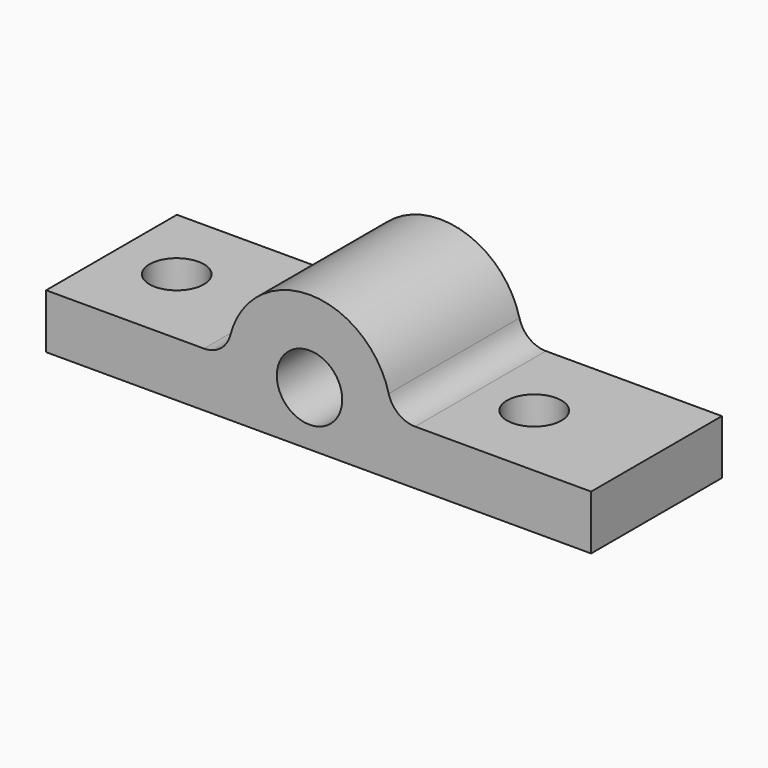
from build123d import *

# Parameters (mm, degrees)
F0_R     = 7.62
F1_DEPTH = 38.1
F2_R     = 6.35
F3_DEPTH = 25.4


with BuildPart() as f1:
    # F0 (on Front) → F1 (new body)
    with BuildSketch(Plane.XZ):
        with BuildLine():
            Line((-64.016195, -28.264835), (62.983805, -28.264835))
            Line((62.983805, -28.264835), (62.983805, -15.564835))
            Line((62.983805, -15.564835), (21.960583, -15.564835))
            ThreePointArc((21.960583, -15.564835), (18.072018, -14.23495), (15.812222, -10.802335))
            ThreePointArc((15.812222, -10.802335), (-2.632861, 3.485165), (-21.077944, -10.802335))
            ThreePointArc((-21.077944, -10.802335), (-23.33774, -14.23495), (-27.226305, -15.564835))
            Line((-27.226305, -15.564835), (-64.016195, -15.564835))
            Line((-64.016195, -15.564835), (-64.016195, -28.264835))
        make_face()
        with Locations((-2.632861, -15.564835)):
            Circle(F0_R, mode=Mode.SUBTRACT)
    extrude(amount=F1_DEPTH)

    # F2 (on face) → F3 (cut)
    with BuildSketch(Plane.XY.offset(-15.564835)):
        with Locations((-49.384239, -18.341588)):
            Circle(F2_R)
        with Locations((34.943767, -19.611587)):
            Circle(F2_R)
    extrude(amount=-F3_DEPTH, mode=Mode.SUBTRACT)


solid = f1.part
